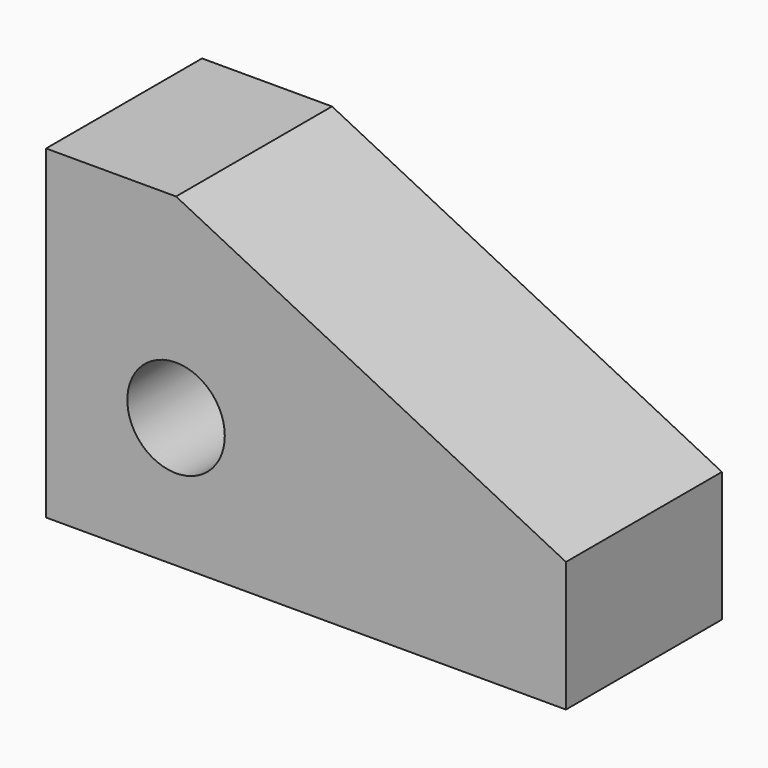
from build123d import *

# Parameters (mm, degrees)
F1_DEPTH = 38.1
F2_R     = 9.525
F3_DEPTH = 38.101


with BuildPart() as f1:
    # F0 (on Front) → F1 (new body)
    with BuildSketch(Plane.XZ):
        Polygon((0, 63.5), (0, 0), (101.6, 0), (101.6, 25.4), (25.4, 63.5), align=None)
    extrude(amount=F1_DEPTH)

    # F2 (on face) → F3 (cut, through all)
    with BuildSketch(Plane.XZ.offset(38.1)):
        with Locations((25.4, 25.4)):
            Circle(F2_R)
    extrude(amount=-F3_DEPTH, mode=Mode.SUBTRACT)


solid = f1.part
